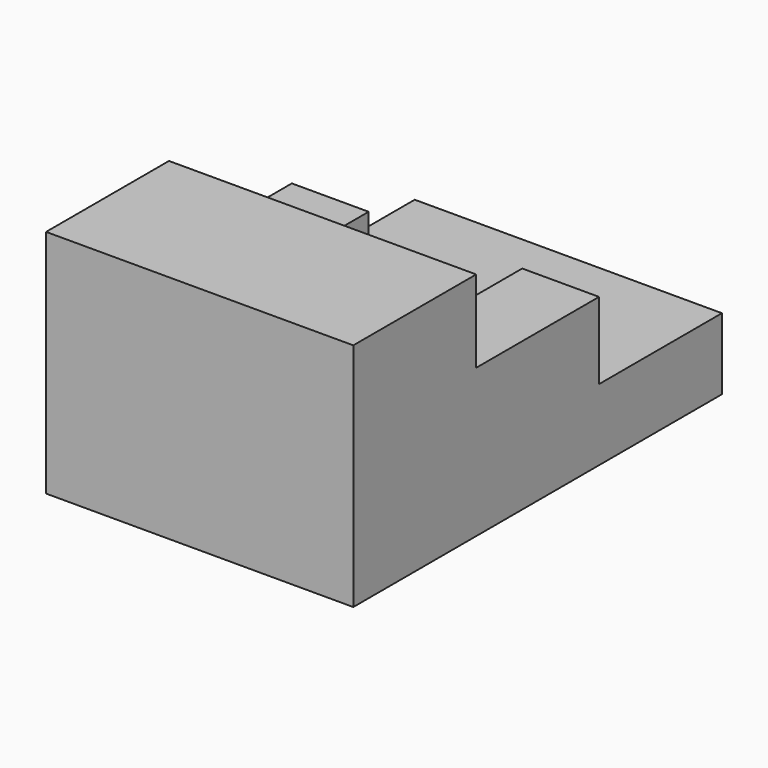
from build123d import *

# Parameters (mm, degrees)
F1_DEPTH = 40
F2_W     = 10
F2_H     = 20
F3_DEPTH = 10


with BuildPart() as f1:
    # F0 (on Right) → F1 (new body)
    with BuildSketch(Plane.YZ):
        Polygon((0, 30), (0, 0), (60, 0), (60, 9.296588), (50, 9.296588), (20, 9.296588), (20, 30), align=None)
    extrude(amount=F1_DEPTH)

    # F2 (on face) → F3 (join)
    with BuildSketch(Plane.XY.offset(9.296588)):
        with Locations((35, 30)):
            Rectangle(F2_W, F2_H)
        with Locations((5, 30)):
            Rectangle(F2_W, F2_H)
    extrude(amount=F3_DEPTH)


solid = f1.part
